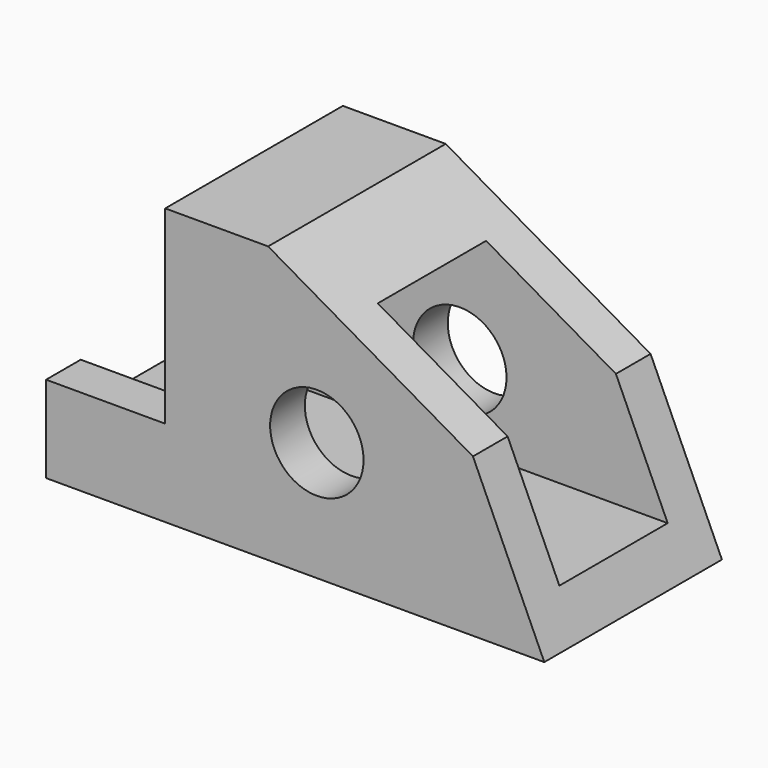
from build123d import *

# Parameters (mm, degrees)
F1_DEPTH = 41
F2_W     = 25
F2_H     = 35
F3_DEPTH = 92.001
F4_R     = 8.623428
F5_DEPTH = 41.001


with BuildPart() as f1:
    # F0 (on Front) → F1 (new body)
    with BuildSketch(Plane.XZ):
        Polygon((0, 16), (0, 0), (92, 0), (78.824782, 29.161852), (41, 51), (22, 51), (22, 16), align=None)
    extrude(amount=-F1_DEPTH)

    # F2 (on Right) → F3 (cut, through all)
    with BuildSketch(Plane.YZ):
        with Locations((20.5, 25.5)):
            Rectangle(F2_W, F2_H)
    extrude(amount=F3_DEPTH, mode=Mode.SUBTRACT)

    # F4 (on face) → F5 (cut, through all)
    with BuildSketch(Plane.XZ):
        with Locations((50, 22)):
            Circle(F4_R)
    extrude(amount=-F5_DEPTH, mode=Mode.SUBTRACT)


solid = f1.part
